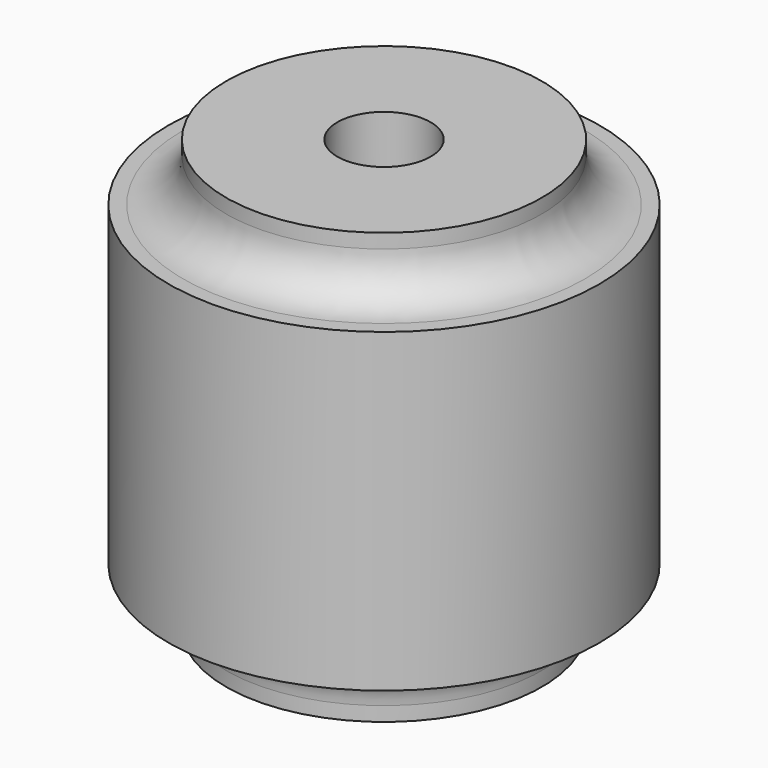
from build123d import *

# Parameters (mm, degrees)
F2_R           = 3
F5_D           = 6.5
F5_DEPTH       = 10
F5_TIP         = 1.9527970118
F5_ON_F3_D     = 6.5
F5_ON_F3_DEPTH = 10
F5_ON_F3_TIP   = 1.9527970118


with BuildPart() as f1:
    # F0 (on Front) → F1 (revolve)
    with BuildSketch(Plane.XZ):
        Polygon((0, -15), (0, 15), (-11, 15), (-11, 11), (-15, 11), (-15, -11), (-11, -11), (-11, -15), align=None)
    revolve(axis=Axis((0, 0, 0), (0, 0, -1)))

    # F2
    f2_edges = [f1.edges().sort_by_distance(p)[0] for p in [
        (11, 0, 11),
        (11, 0, -11),
    ]]
    fillet(f2_edges, radius=F2_R)

    # F5
    with Locations(Plane(origin=(0, 0, -15), x_dir=(1, 0, 0), z_dir=(0, 0, -1))):
        with Locations((0, 0)):
            Hole(F5_D / 2, depth=F5_DEPTH)
            with Locations((0, 0, -(F5_DEPTH + F5_TIP / 2))):  # 118° drill point
                Cone(0, F5_D / 2, F5_TIP, mode=Mode.SUBTRACT)

    # F5 on F3
    with Locations(Plane.XY.offset(15)):
        with Locations((0, 0)):
            Hole(F5_ON_F3_D / 2, depth=F5_ON_F3_DEPTH)
            with Locations((0, 0, -(F5_ON_F3_DEPTH + F5_ON_F3_TIP / 2))):  # 118° drill point
                Cone(0, F5_ON_F3_D / 2, F5_ON_F3_TIP, mode=Mode.SUBTRACT)


solid = f1.part
